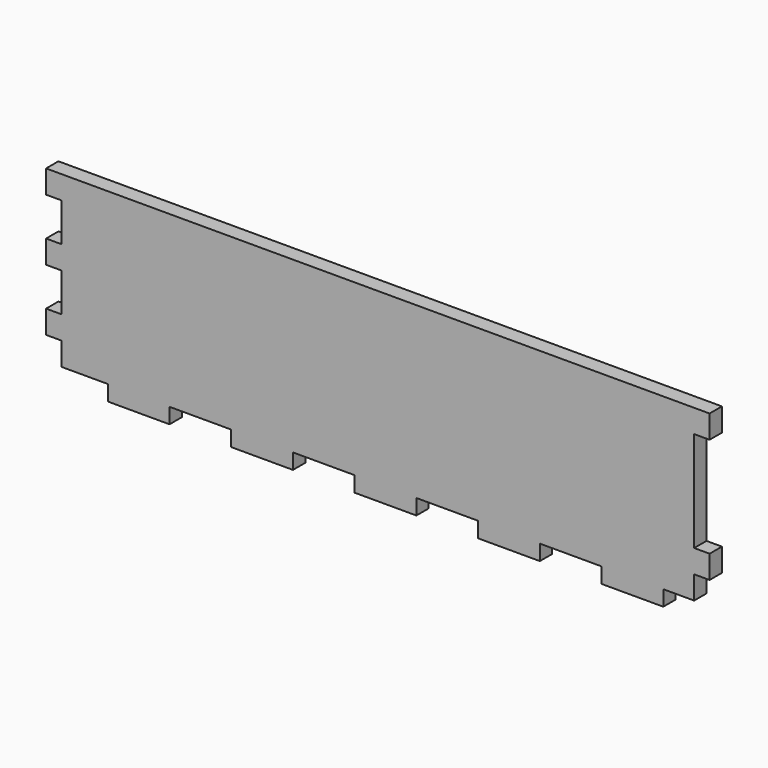
from build123d import *

# Parameters (mm, degrees)
F0_W     = 273.05
F0_H     = 76.2
F1_DEPTH = 6.35
F2_W     = 6.35
F2_H     = 15.875
F2_H_2   = 9.525
F3_DEPTH = 6.35
F4_W     = 25.4
F4_H     = 6.35
F5_DEPTH = 6.351
F6_W     = 6.35
F6_H     = 9.525
F7_DEPTH = 6.35


with BuildPart() as f1:
    # F0 (on Front) → F1 (new body)
    with BuildSketch(Plane.XZ):
        with Locations((136.525, 38.1)):
            Rectangle(F0_W, F0_H)
    extrude(amount=F1_DEPTH)

    # F2 (on face) → F3 (cut, through all)
    with BuildSketch(Plane.XZ.offset(6.35)):
        with Locations((3.175, 58.7375)):
            Rectangle(F2_W, F2_H)
        with Locations((3.175, 33.3375)):
            Rectangle(F2_W, F2_H)
        with Locations((3.175, 11.1125)):
            Rectangle(F2_W, F2_H_2)
        with Locations((269.875, 11.1125)):
            Rectangle(F2_W, F2_H_2)
        with Locations((269.875, 33.3375)):
            Rectangle(F2_W, F2_H)
        with Locations((269.875, 58.7375)):
            Rectangle(F2_W, F2_H)
    extrude(amount=-F3_DEPTH, mode=Mode.SUBTRACT)

    # F4 (on face) → F5 (cut, through all)
    with BuildSketch(Plane.XZ.offset(6.35)):
        with Locations((12.7, 3.175)):
            Rectangle(F4_W, F4_H)
        with Locations((63.5, 3.175)):
            Rectangle(F4_W, F4_H)
        with Locations((114.3, 3.175)):
            Rectangle(F4_W, F4_H)
        with Locations((165.1, 3.175)):
            Rectangle(F4_W, F4_H)
        with Locations((215.9, 3.175)):
            Rectangle(F4_W, F4_H)
        with Locations((266.7, 3.175)):
            Rectangle(F4_W, F4_H)
    extrude(amount=-F5_DEPTH, mode=Mode.SUBTRACT)

    # F6 (on face) → F7 (cut, through all)
    with BuildSketch(Plane.XZ.offset(6.35)):
        with Locations((269.875, 46.0375)):
            Rectangle(F6_W, F6_H)
    extrude(amount=-F7_DEPTH, mode=Mode.SUBTRACT)


solid = f1.part
